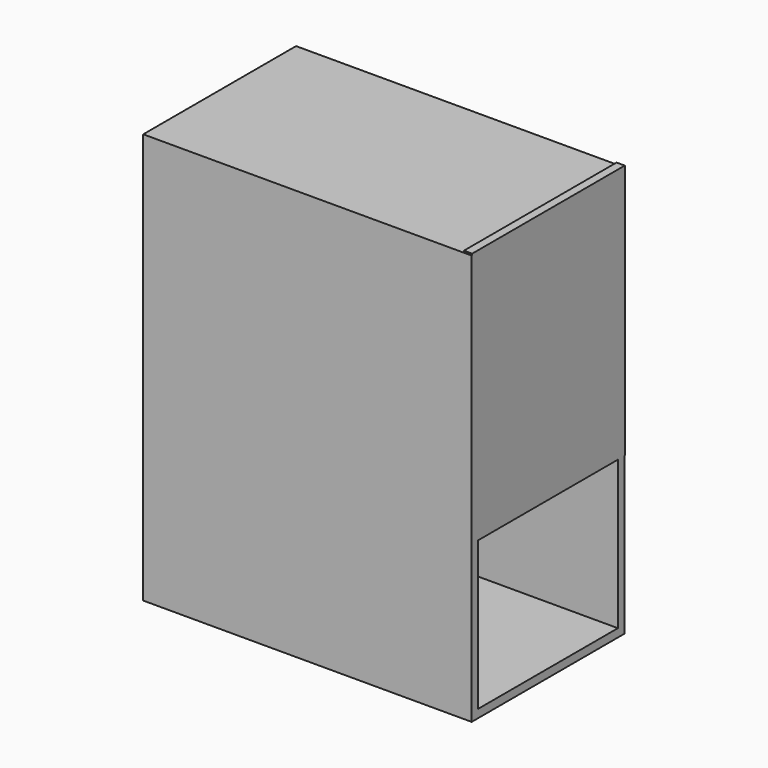
from build123d import *

# Parameters (mm, degrees)
F0_W     = 101.6
F0_H     = 59.0938783061
F1_DEPTH = 127
F2_T     = -2.54
F4_W     = 59.033177793
F4_H     = 79.0090560913
F5_DEPTH = 2.54


with BuildPart() as f1:
    # F0 (on Top) → F1 (new body)
    with BuildSketch(Plane.XY):
        with Locations((-1.5831552446, -2.7139894664)):
            Rectangle(F0_W, F0_H)
    extrude(amount=F1_DEPTH)

    # F2
    f2_openings = [f1.faces().sort_by_distance(p)[0] for p in [
        (49.216845, -2.713989, 63.5),
    ]]
    offset(amount=F2_T, openings=f2_openings)

    # F4 (on offset) → F5 (join)
    with BuildSketch(Plane.YZ.offset(49.2168447554)):
        with Locations((-2.5649182498, 87.9480838776)):
            Rectangle(F4_W, F4_H)
    extrude(amount=-F5_DEPTH)


solid = f1.part
